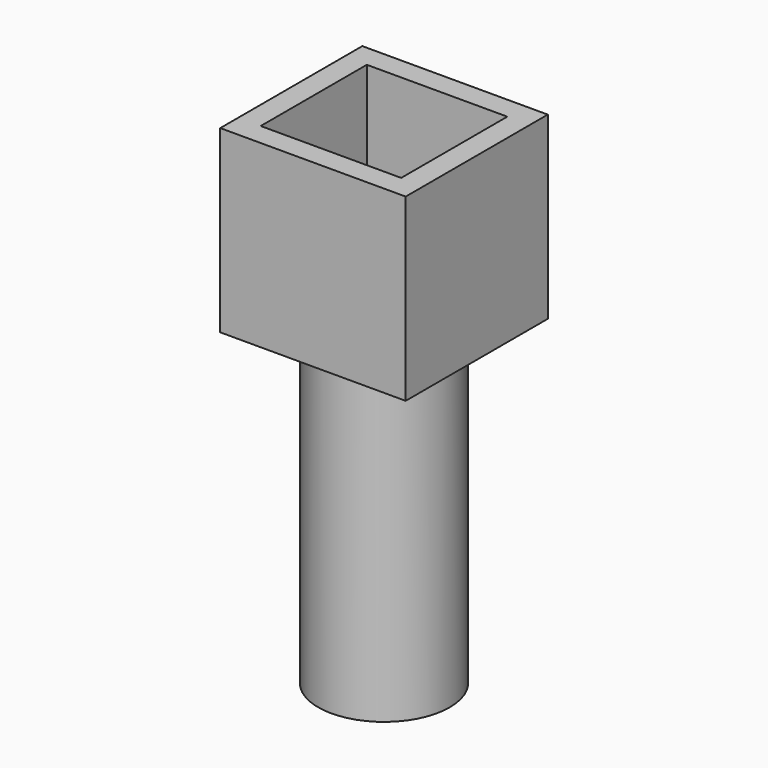
from build123d import *

# Parameters (mm, degrees)
F0_R     = 2.925
F0_R_2   = 1.925
F1_DEPTH = 15
F3_W     = 8.25
F3_H     = 7.9
F3_W_2   = 6.25
F3_H_2   = 5.9
F3_R     = 2.925
F4_DEPTH = 1
F5_DEPTH = 7


with BuildPart() as f1:
    # F0 (on Top) → F1 (new body)
    with BuildSketch(Plane.XY):
        Circle(F0_R)
        Circle(F0_R_2, mode=Mode.SUBTRACT)
    extrude(amount=F1_DEPTH)

    # F3 (on face) → F4 (join)
    with BuildSketch(Plane.XY.offset(15)):
        Rectangle(F3_W, F3_H)
        Rectangle(F3_W_2, F3_H_2, mode=Mode.SUBTRACT)
        Rectangle(F3_W, F3_H)
        Rectangle(F3_W_2, F3_H_2, mode=Mode.SUBTRACT)
        Rectangle(F3_W_2, F3_H_2)
        Circle(F3_R, mode=Mode.SUBTRACT)
    extrude(amount=-F4_DEPTH)

    # F3 (on face) → F5 (join)
    with BuildSketch(Plane.XY.offset(15)):
        Rectangle(F3_W, F3_H)
        Rectangle(F3_W_2, F3_H_2, mode=Mode.SUBTRACT)
    extrude(amount=F5_DEPTH)


solid = f1.part
